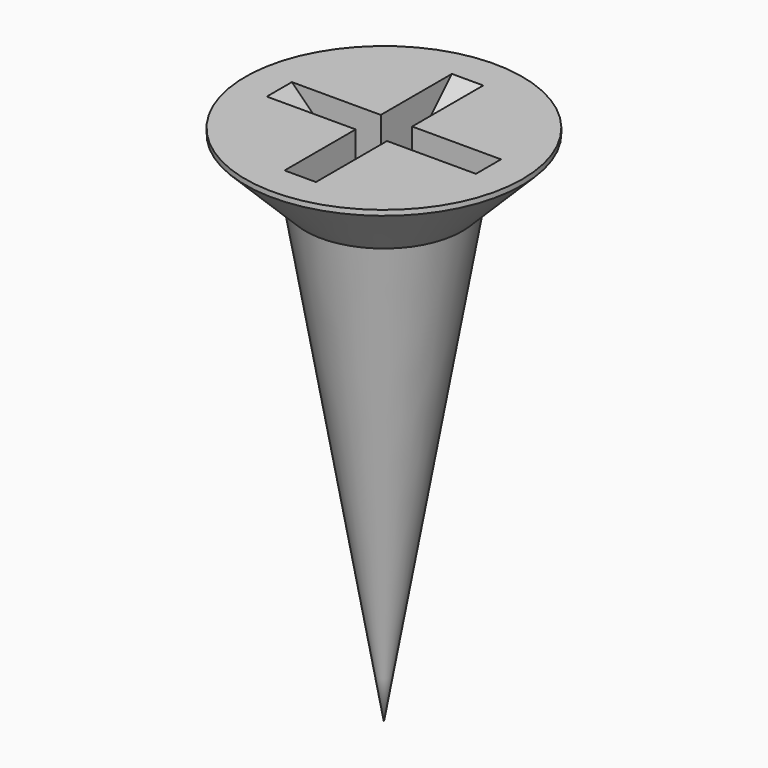
from build123d import *

# Parameters (mm, degrees)
POCKET_DEPTH       = 0.3
POLARPATTERN_COUNT = 2
POLARPATTERN_ANGLE = 90


with BuildPart() as part:
    # Sketch → Revolution (revolve)
    with BuildSketch(Plane.XZ):
        Polygon((0, 0), (0, -10), (1.5, -1.25), (2.65, -0.1), (2.65, 0), align=None)
    revolve(axis=Axis((0, 0, 0), (0, 0, 1)))

    # Sketch001 → Pocket (cut, symmetric)
    with BuildSketch(Plane.XZ):
        Polygon((-2, 0), (0, -2), (2, 0), align=None)
    pocket = extrude(amount=POCKET_DEPTH, both=True, mode=Mode.SUBTRACT)

    # PolarPattern: Pocket ×2 about axis
    polarpattern_axis = Axis((0, 0, 0), (0, 0, 1))
    for i in range(1, POLARPATTERN_COUNT):
        add(pocket.rotate(polarpattern_axis, i * POLARPATTERN_ANGLE / (POLARPATTERN_COUNT - 1)), mode=Mode.SUBTRACT)


solid = part.part
